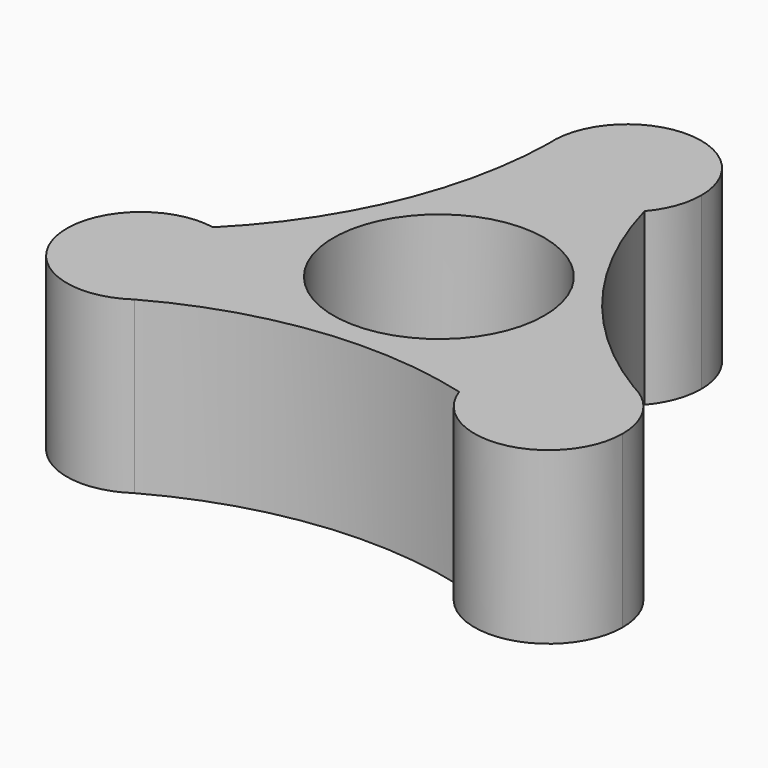
from build123d import *

# Parameters (mm, degrees)
F0_R     = 15.708112
F1_DEPTH = 25.4


with BuildPart() as f1:
    # F0 (on Top) → F1 (new body)
    with BuildSketch(Plane.XY):
        with BuildLine():
            ThreePointArc((8.357053, 27.856014), (10.344975, 31.219382), (11.036502, 35.064623))
            ThreePointArc((11.036502, 35.064623), (-0.452947, 46.091827), (-10.999324, 34.159493))
            ThreePointArc((-10.999324, 34.159493), (-3.417435, 24.570552), (8.357053, 27.856014))
        make_face()
        with BuildLine():
            ThreePointArc((8.357053, 27.856014), (-3.417435, 24.570552), (-10.999324, 34.159493))
            ThreePointArc((-10.999324, 34.159493), (-15.69672, 12.059533), (-28.302542, -6.690586))
            ThreePointArc((-28.302542, -6.690586), (-21.864291, -10.49592), (-19.330352, -17.532311))
            ThreePointArc((-19.330352, -17.532311), (-20.590542, -22.65365), (-24.083327, -26.60544))
            ThreePointArc((-24.083327, -26.60544), (-2.595502, -19.623525), (19.945489, -21.165427))
            ThreePointArc((19.945489, -21.165427), (22.987439, -9.325691), (35.082651, -7.554053))
            ThreePointArc((35.082651, -7.554053), (18.292222, 7.563992), (8.357053, 27.856014))
        make_face()
        Circle(F0_R, mode=Mode.SUBTRACT)
        with BuildLine():
            ThreePointArc((-19.330352, -17.532311), (-21.864291, -10.49592), (-28.302542, -6.690586))
            ThreePointArc((-28.302542, -6.690586), (-41.163704, -19.819761), (-24.083327, -26.60544))
            ThreePointArc((-24.083327, -26.60544), (-20.590542, -22.65365), (-19.330352, -17.532311))
        make_face()
        with BuildLine():
            ThreePointArc((41.403357, -17.532311), (39.69022, -11.626446), (35.082651, -7.554053))
            ThreePointArc((35.082651, -7.554053), (22.987439, -9.325691), (19.945489, -21.165427))
            ThreePointArc((19.945489, -21.165427), (32.209266, -28.413943), (41.403357, -17.532311))
        make_face()
    extrude(amount=F1_DEPTH)


solid = f1.part
